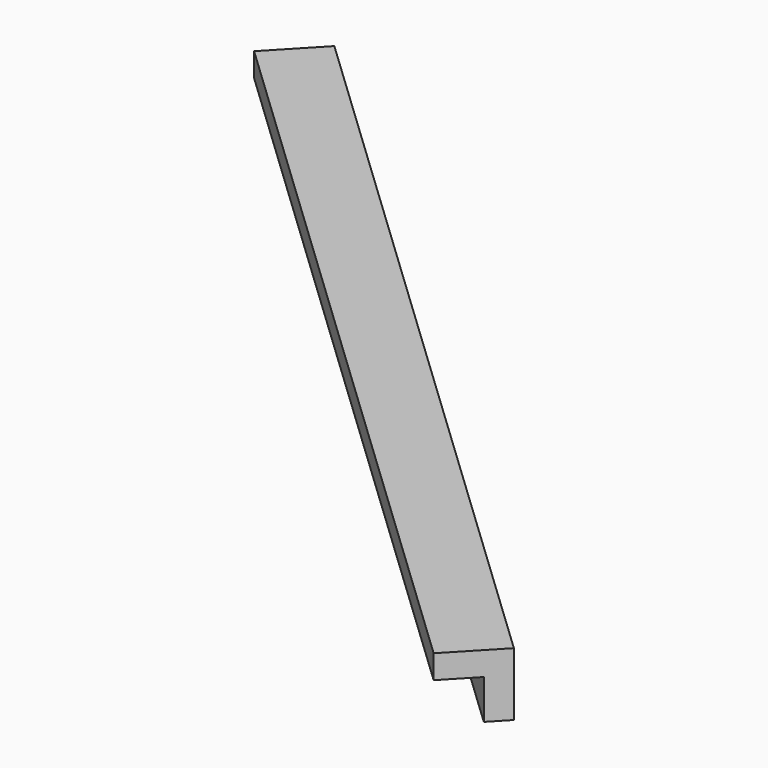
from build123d import *

# Parameters (mm, degrees)
BOX131_W               = 0.8
BOX131_H               = 13
BOX131_DEPTH           = 0.8
BOX132_W               = 0.8
BOX132_H               = 13
BOX132_DEPTH           = 0.8
CUT069_PLACEMENT_ANGLE = 46.5


with BuildPart() as cubo131:
    # Box131 → Box131 (new body)
    with BuildSketch(Plane.XY):
        with Locations((0.4, 6.5)):
            Rectangle(BOX131_W, BOX131_H)
    extrude(amount=BOX131_DEPTH)


with BuildPart() as obj1:
    # Box132 → Box132 (new body)
    with BuildSketch(Plane(origin=(0.3, 0, 0.3), x_dir=(1, 0, 0), z_dir=(0, 0, 1))):
        with Locations((0.4, 6.5)):
            Rectangle(BOX132_W, BOX132_H)
    extrude(amount=BOX132_DEPTH)

    # Cut069: cut Cubo131
    add(cubo131.part, mode=Mode.SUBTRACT)


with BuildPart() as obj1_1:
    # Cut069 placement: moved
    add(obj1.part.moved(Location((-162.3, 151.3, -1.45))).rotate(Axis((-162.3, 151.3, -1.45), (0, 0, 1)), CUT069_PLACEMENT_ANGLE))


solid = obj1_1.part
